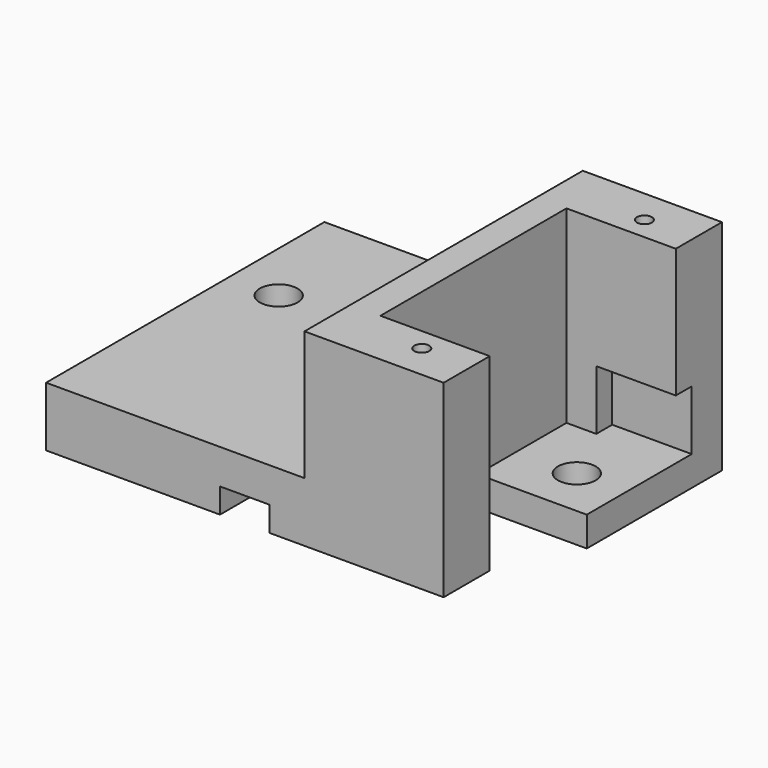
from build123d import *

# Parameters (mm, degrees)
SKETCH_W        = 40
SKETCH_H        = 35
PAD_DEPTH       = 6
SKETCH002_W     = 40
SKETCH002_H     = 17
PAD001_DEPTH    = 3
SKETCH001_R     = 1.9
SKETCH001_R_2   = 1.6
POCKET_DEPTH    = 9.001
SKETCH003_W     = 14
SKETCH003_H     = 35
PAD002_DEPTH    = 13
SKETCH004_W     = 11
SKETCH004_H     = 23.4
POCKET001_DEPTH = 19
SKETCH005_R     = 0.75
POCKET002_DEPTH = 10
SKETCH006_W     = 2
SKETCH006_H     = 6
POCKET003_DEPTH = 8
SKETCH007_W     = 5
SKETCH007_H     = 18
POCKET004_DEPTH = 2.5


with BuildPart() as part:
    # Sketch → Pad (new body)
    with BuildSketch(Plane.XY):
        with Locations((0, -0.5)):
            Rectangle(SKETCH_W, SKETCH_H)
    extrude(amount=PAD_DEPTH)

    # Sketch002 (on Face5 of Pad) → Pad001 (join)
    with BuildSketch(Plane(origin=(0, 0, 0), x_dir=(1, 0, 0), z_dir=(0, 0, -1))):
        with Locations((0, -8.5)):
            Rectangle(SKETCH002_W, SKETCH002_H)
    extrude(amount=PAD001_DEPTH)

    # Sketch001 (on Face6 of Pad) → Pocket (cut, through all)
    with BuildSketch(Plane.XY.offset(6)):
        with Locations((-15, 5)):
            Circle(SKETCH001_R)
        with Locations((15, 5)):
            Circle(SKETCH001_R)
        with Locations((0, -5)):
            Circle(SKETCH001_R_2)
    extrude(amount=-POCKET_DEPTH, mode=Mode.SUBTRACT)

    # Sketch003 (on Face1 of Pocket) → Pad002 (join)
    with BuildSketch(Plane.XY.offset(6)):
        with Locations((13, -0.5)):
            Rectangle(SKETCH003_W, SKETCH003_H)
    extrude(amount=PAD002_DEPTH)

    # Sketch004 (on Face9 of Pad002) → Pocket001 (cut)
    with BuildSketch(Plane.XY.offset(19)):
        with Locations((14.5, -0.5)):
            Rectangle(SKETCH004_W, SKETCH004_H)
    extrude(amount=-POCKET001_DEPTH, mode=Mode.SUBTRACT)

    # Sketch005 (on Face12 of Pocket001) → Pocket002 (cut)
    with BuildSketch(Plane.XY.offset(19)):
        with Locations((15, 13.5)):
            Circle(SKETCH005_R)
        with Locations((15, -14.5)):
            Circle(SKETCH005_R)
    extrude(amount=-POCKET002_DEPTH, mode=Mode.SUBTRACT)

    # Sketch006 (on Face11 of Pocket002) → Pocket003 (cut)
    with BuildSketch(Plane.YZ.offset(20)):
        with Locations((12.2, 3)):
            Rectangle(SKETCH006_W, SKETCH006_H)
    extrude(amount=-POCKET003_DEPTH, mode=Mode.SUBTRACT)

    # Sketch007 (on Face10 of Pocket003) → Pocket004 (cut)
    with BuildSketch(Plane(origin=(0, 0, 0), x_dir=(1, 0, 0), z_dir=(0, 0, -1))):
        with Locations((0, 9)):
            Rectangle(SKETCH007_W, SKETCH007_H)
    extrude(amount=-POCKET004_DEPTH, mode=Mode.SUBTRACT)


solid = part.part
